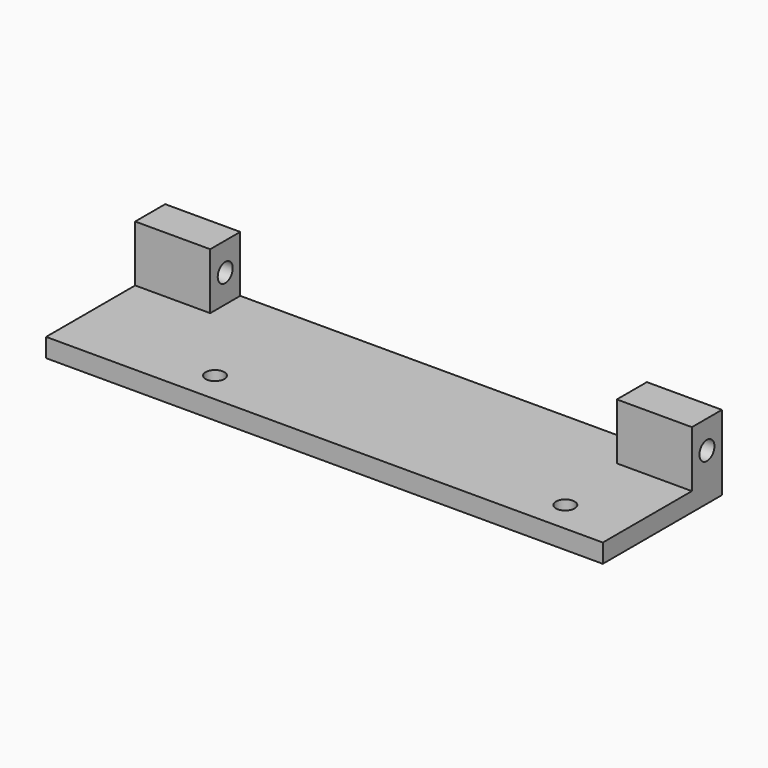
from build123d import *

# Parameters (mm, degrees)
F0_W     = 89
F0_H     = 23.8
F1_DEPTH = 3
F2_W     = 12
F2_H     = 6
F3_W     = 12
F3_H     = 6
F4_DEPTH = 9
F5_R     = 1.5
F6_DEPTH = 89.001
F7_R     = 1.5
F8_R     = 1.5
F9_DEPTH = 15


with BuildPart() as f1:
    # F0 (on Top) → F1 (new body)
    with BuildSketch(Plane.XY):
        Rectangle(F0_W, F0_H)
    extrude(amount=F1_DEPTH)

    # F2 (on face) + F3 (on face) → F4 (join)
    with BuildSketch(Plane.XY.offset(3)):
        with Locations((38.5, 8.9)):
            Rectangle(F2_W, F2_H)
    with BuildSketch(Plane.XY.offset(3)):
        with Locations((-38.5, 8.9)):
            Rectangle(F3_W, F3_H)
    extrude(amount=F4_DEPTH)

    # F5 (on face) → F6 (cut, through all)
    with BuildSketch(Plane(origin=(-44.5, 0, 0), x_dir=(0, -1, 0), z_dir=(-1, 0, 0))):
        with Locations((-8.9, 7.5)):
            Circle(F5_R)
    extrude(amount=-F6_DEPTH, mode=Mode.SUBTRACT)

    # F7 (on face) + F8 (on face) → F9 (cut)
    with BuildSketch(Plane.XY.offset(3)):
        with Locations((34.5, -6.9)):
            Circle(F7_R)
    with BuildSketch(Plane.XY.offset(3)):
        with Locations((-21.5, -6.9)):
            Circle(F8_R)
    extrude(amount=-F9_DEPTH, mode=Mode.SUBTRACT)


solid = f1.part
